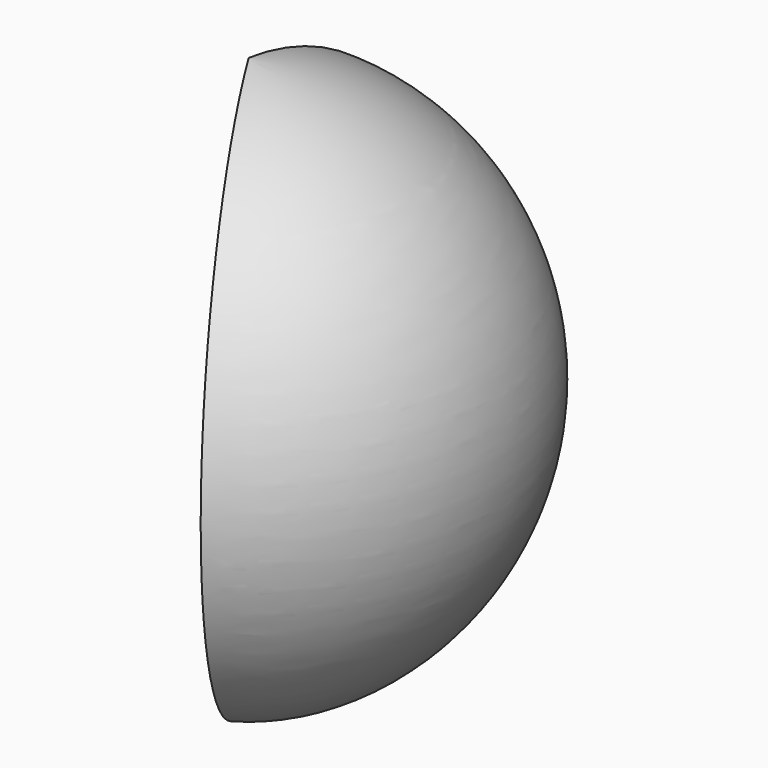
from build123d import *

# Parameters (mm, degrees)
F1_ANGLE = 150


with BuildPart() as f1:
    # F0 (on Right) → F1 (revolve)
    with BuildSketch(Plane.YZ):
        with BuildLine():
            ThreePointArc((-27.878881, -102.026731), (62.405998, 0.45253), (-27.878881, 102.93179))
            Line((-27.878881, 102.93179), (-27.878881, -102.026731))
        make_face()
    revolve(axis=Axis((0, -27.878881, 0.45253), (0, 0, -1)), revolution_arc=F1_ANGLE)


solid = f1.part
